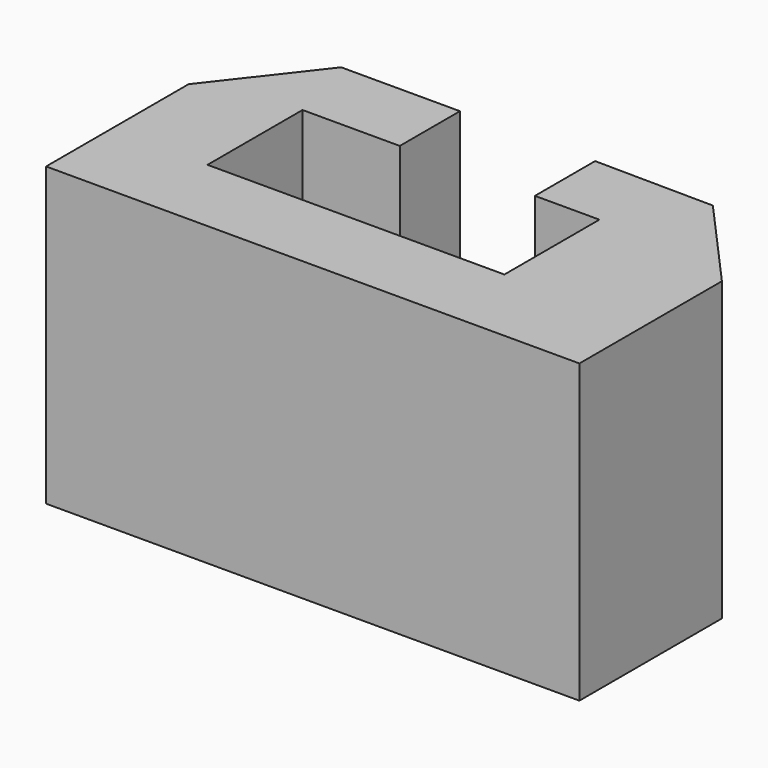
from build123d import *

# Parameters (mm, degrees)
F1_DEPTH = 25
F2_DEPTH = 25


with BuildPart() as f1:
    # F0 (on Top) → F1 (new body)
    with BuildSketch(Plane.XY):
        Polygon((-49.435548, 0), (-49.435548, -30), (40.383459, -30), (40.383459, 0), (25.993211, 16.079078), (5.994318, 16.289592), (5.994318, 3.619909), (16.854047, 3.619909), (16.854047, -16.380091), (-33.145953, -16.380091), (-33.145953, 3.619909), (-16.76586, 3.619909), (-16.76586, 16.289592), (-36.76586, 16.289592), align=None)
    extrude(amount=F1_DEPTH)

    # F1_face (on face) → F2 (join)
    with BuildSketch(Plane(origin=(-3.293227, -10.371674, 25), x_dir=(1, 0, 0), z_dir=(0, 0, 1))):
        Polygon((29.286437, 26.450752), (9.287545, 26.661266), (9.287545, 13.991583), (20.147274, 13.991583), (20.147274, -6.008417), (-29.852726, -6.008417), (-29.852726, 13.991583), (-13.472634, 13.991583), (-13.472634, 26.661266), (-33.472634, 26.661266), (-46.142321, 10.371674), (-46.142321, -19.628326), (43.676686, -19.628326), (43.676686, 10.371674), align=None)
    extrude(amount=F2_DEPTH)


solid = f1.part
